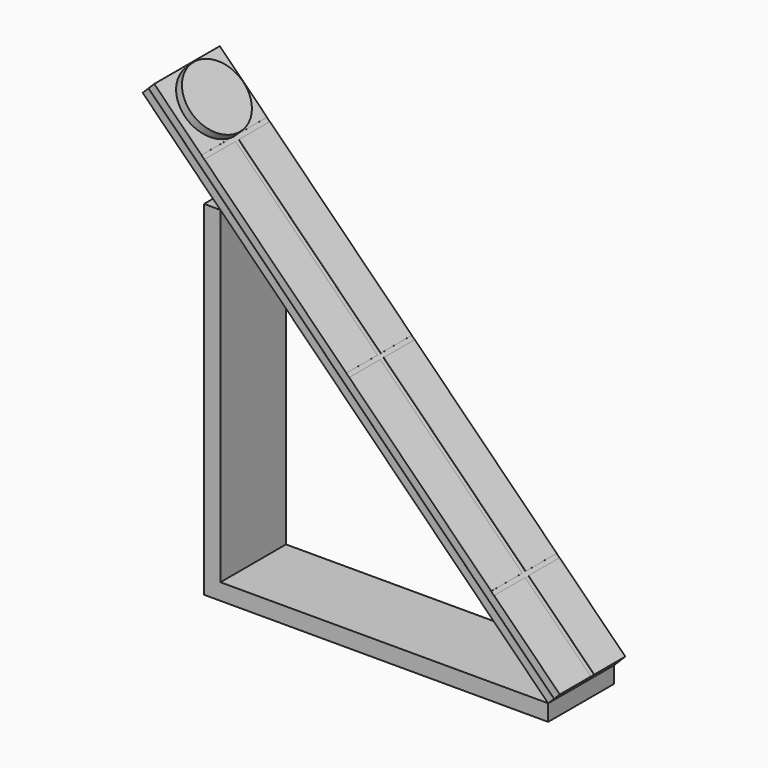
from build123d import *

# Parameters (mm, degrees)
F0_W      = 200
F0_H      = 50
F1_DEPTH  = 200
F3_DEPTH  = 209
F4_W      = 50
F4_H      = 67.1572875254
F4_H_2    = 282.8427124746
F5_DEPTH  = 10
F6_W      = 200
F6_H      = 50
F6_W_2    = 10
F7_DEPTH  = 10
F8_W      = 50
F8_H      = 200
F9_DEPTH  = 10
F11_DEPTH = 234.7
F12_W     = 23.75
F12_H     = 2.5
F12_W_2   = 2.5
F12_H_2   = 122.5
F12_H_3   = 56.7078916558
F13_DEPTH = 0.1
F15_DEPTH = 5
F17_DEPTH = 49


with BuildPart() as f1:
    # F0 (on Top) → F1 (new body)
    with BuildSketch(Plane.XY):
        with Locations((47.015959441, -5.397499539)):
            Rectangle(F0_W, F0_H)
    extrude(amount=F1_DEPTH)

    # F2 (on face) → F3 (cut)
    with BuildSketch(Plane.XZ.offset(30.397499539)):
        Polygon((147.015959441, 200), (-52.984040559, 200), (147.015959441, 0), align=None)
    extrude(amount=-F3_DEPTH, mode=Mode.SUBTRACT)

    # F4 (on face) → F5 (join)
    with BuildSketch(Plane(origin=(73.5079797205, 0, 73.5079797205), x_dir=(0, 1, 0), z_dir=(0.7071067812, 0, 0.7071067812))):
        with Locations((-5.397499539, 212.4653743739)):
            Rectangle(F4_W, F4_H)
        with Locations((-5.397499539, 37.4653743739)):
            Rectangle(F4_W, F4_H_2)
    extrude(amount=F5_DEPTH)

    # F6 (on face) → F7 (join)
    with BuildSketch(Plane(origin=(0, 0, 0), x_dir=(1, 0, 0), z_dir=(0, 0, -1))):
        with Locations((47.015959441, 5.397499539)):
            Rectangle(F6_W, F6_H)
        with Locations((-57.984040559, 5.397499539)):
            Rectangle(F6_W_2, F6_H)
    extrude(amount=F7_DEPTH)

    # F8 (on face) → F9 (join)
    with BuildSketch(Plane(origin=(-52.984040559, 0, 0), x_dir=(0, -1, 0), z_dir=(-1, 0, 0))):
        with Locations((5.397499539, 100)):
            Rectangle(F8_W, F8_H)
    extrude(amount=F9_DEPTH)

    # F10 (on face) → F11 (cut)
    with BuildSketch(Plane.XZ.offset(30.397499539)):
        Polygon((147.015959441, 0), (-52.984040559, 200), (-52.984040559, 0), align=None)
    extrude(amount=-F11_DEPTH, mode=Mode.SUBTRACT)

    # F12 (on face) → F13 (cut)
    with BuildSketch(Plane(origin=(80.5790475324, 0, 80.5790475324), x_dir=(0, 1, 0), z_dir=(0.7071067812, 0, 0.7071067812))):
        with Locations((-18.522499539, 204.0019097924)):
            Rectangle(F12_W, F12_H)
        with Locations((-5.397499539, 204.0019097924)):
            Rectangle(F12_W_2, F12_H)
        with Locations((7.727500461, 204.0019097924)):
            Rectangle(F12_W, F12_H)
        with Locations((-18.522499539, -45.9980902076)):
            Rectangle(F12_W, F12_H)
        with Locations((-5.397499539, -45.9980902076)):
            Rectangle(F12_W_2, F12_H)
        with Locations((7.727500461, -45.9980902076)):
            Rectangle(F12_W, F12_H)
        with Locations((-18.522499539, 79.0019097924)):
            Rectangle(F12_W, F12_H)
        with Locations((-5.397499539, 79.0019097924)):
            Rectangle(F12_W_2, F12_H)
        with Locations((7.727500461, 79.0019097924)):
            Rectangle(F12_W, F12_H)
        with Locations((-5.397499539, 141.5019097924)):
            Rectangle(F12_W_2, F12_H_2)
        with Locations((-5.397499539, 16.5019097924)):
            Rectangle(F12_W_2, F12_H_2)
        with Locations((-5.397499539, -75.6020360355)):
            Rectangle(F12_W_2, F12_H_3)
    extrude(amount=-F13_DEPTH, mode=Mode.SUBTRACT)

    # F14 (on face) → F15 (join)
    with BuildSketch(Plane(origin=(80.5790475324, 0, 80.5790475324), x_dir=(0, 1, 0), z_dir=(0.7071067812, 0, 0.7071067812))):
        with BuildLine():
            ThreePointArc((-5.397499539, 205.2519097924), (8.7446360848, 211.1097741687), (14.602500461, 225.2519097924))
            ThreePointArc((14.602500461, 225.2519097924), (-19.5396351627, 239.3940454162), (-5.397499539, 205.2519097924))
        make_face()
    extrude(amount=F15_DEPTH)

    # F16 (on face) → F17 (cut)
    with BuildSketch(Plane.XZ.offset(30.397499539)):
        Polygon((-96.8651693903, 251.0936179993), (-96.9358800684, 251.0229073212), (150.5514933469, 3.5355339059), (150.622204025, 3.6062445841), align=None)
    extrude(amount=-F17_DEPTH, mode=Mode.SUBTRACT)


solid = f1.part
